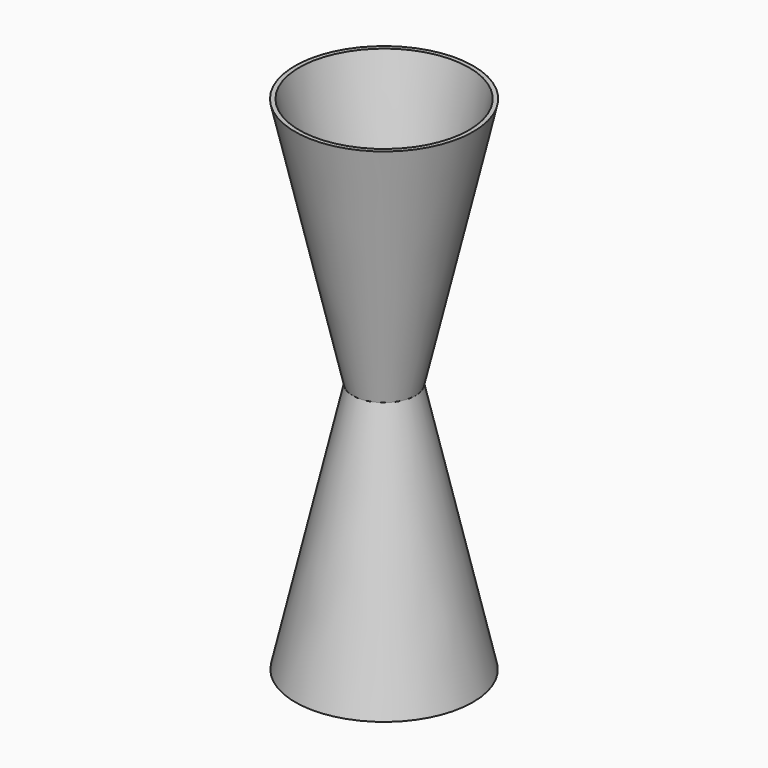
from build123d import *

# Parameters (mm, degrees)
F0_R      = 53.9289820513
F2_R      = 19.024246495
F3_FACE_R = 19.024246495
F5_R      = 54.1030648608
F7_T      = -2.54


with BuildPart() as f3:
    # F0 (on Top) → F3 section 0
    with BuildSketch(Plane.XY):
        Circle(F0_R)
    # F2 (on offset) → F3 section 1
    with BuildSketch(Plane.XY.offset(152.4)):
        Circle(F2_R)
    loft()

    # F3_face (on face) → F6 section 0
    with BuildSketch(Plane.XY.offset(152.4)):
        Circle(F3_FACE_R)
    # F5 (on offset) → F6 section 1
    with BuildSketch(Plane.XY.offset(304.8)):
        Circle(F5_R)
    loft()

    # F7
    f7_openings = [f3.faces().sort_by_distance(p)[0] for p in [
        (0, 0, 304.8),
        (0, 0, 0),
    ]]
    offset(amount=F7_T, openings=f7_openings, kind=Kind.INTERSECTION)


solid = f3.part
